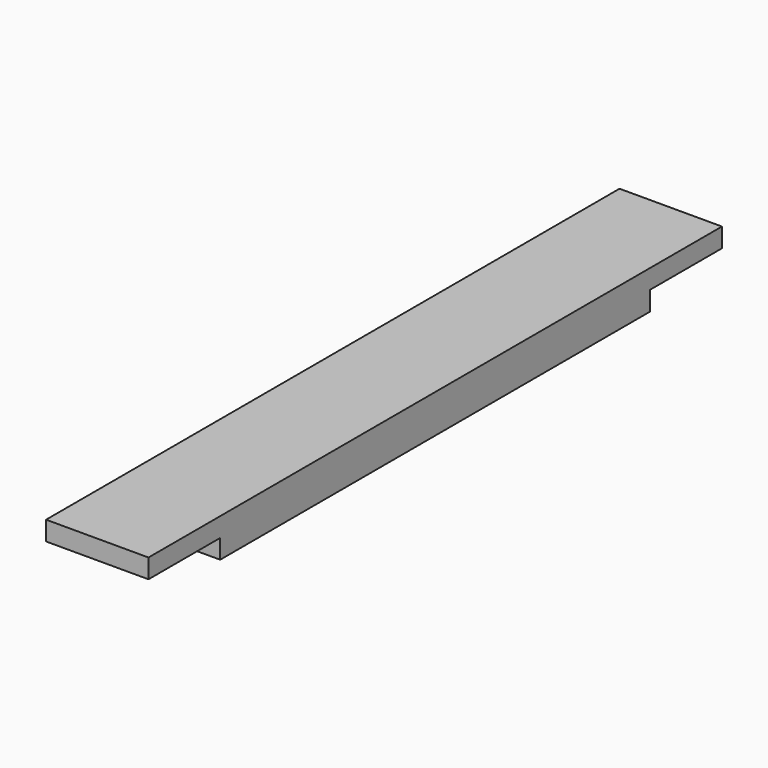
from build123d import *

# Parameters (mm, degrees)
F0_W     = 101.6
F0_H     = 38.1
F1_DEPTH = 355.6
F2_W     = 88.9
F2_H     = 19.05
F3_DEPTH = 101.601


with BuildPart() as f1:
    # F0 (on Front) → F1 (new body, symmetric)
    with BuildSketch(Plane.XZ):
        Rectangle(F0_W, F0_H)
    extrude(amount=F1_DEPTH, both=True)

    # F2 (on face) → F3 (cut, through all)
    with BuildSketch(Plane.YZ.offset(50.8)):
        with Locations((311.15, -9.525)):
            Rectangle(F2_W, F2_H)
        with Locations((-311.15, -9.525)):
            Rectangle(F2_W, F2_H)
    extrude(amount=-F3_DEPTH, mode=Mode.SUBTRACT)


solid = f1.part
